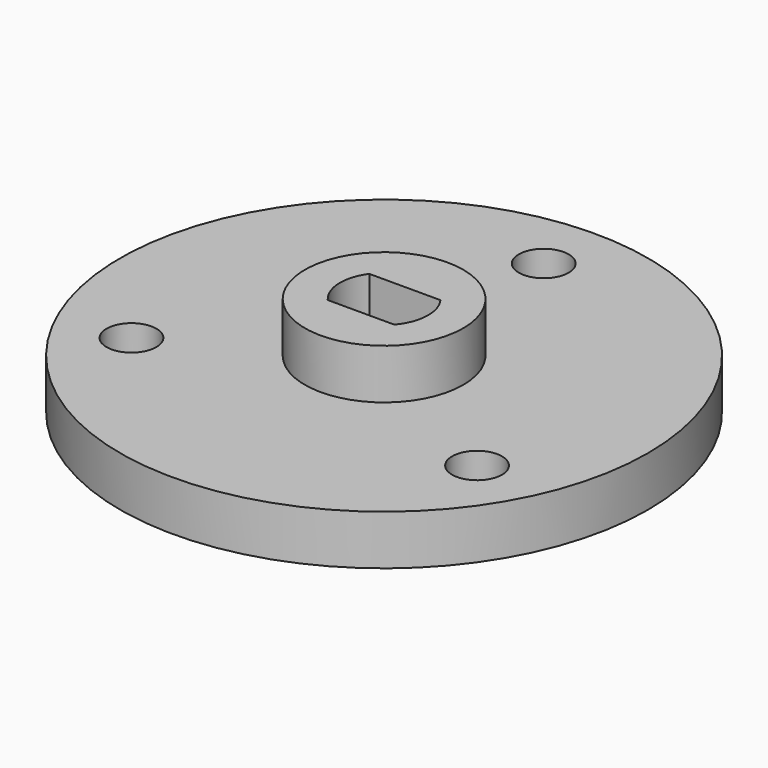
from build123d import *

# Parameters (mm, degrees)
F1_R     = 4.7625
F2_DEPTH = 6
F1_R_2   = 15.875
F1_R_3   = 1.5
F3_DEPTH = 3


with BuildPart() as f2:
    # F1 (on Top) → F2 (new body)
    with BuildSketch(Plane.XY):
        with Locations((33.2608025707, -165.5893599715)):
            Circle(F1_R)
        with BuildLine():
            ThreePointArc((35.2608025707, -167.3278938366), (33.2608025707, -168.2393599715), (31.2608025707, -167.3278938366))
            ThreePointArc((31.2608025707, -167.3278938366), (30.6132217472, -165.7025667882), (31.1196992314, -164.0278938366))
            ThreePointArc((31.1196992314, -164.0278938366), (33.2608025707, -162.9393599715), (35.4019059099, -164.0278938366))
            ThreePointArc((35.4019059099, -164.0278938366), (35.7803683913, -164.768209513), (35.9108025707, -165.5893599715))
            ThreePointArc((35.9108025707, -165.5893599715), (35.7429891068, -166.5173955312), (35.2608025707, -167.3278938366))
        make_face(mode=Mode.SUBTRACT)
        with BuildLine():
            ThreePointArc((35.4019059099, -164.0278938366), (33.2608025707, -162.9393599715), (31.1196992314, -164.0278938366))
            Line((31.1196992314, -164.0278938366), (35.4019059099, -164.0278938366))
        make_face()
        with BuildLine():
            Line((35.2608025707, -167.3278938366), (31.2608025707, -167.3278938366))
            ThreePointArc((31.2608025707, -167.3278938366), (33.2608025707, -168.2393599715), (35.2608025707, -167.3278938366))
        make_face()
    extrude(amount=F2_DEPTH)

    # F1 (on Top) → F3 (join)
    with BuildSketch(Plane.XY):
        with Locations((33.2608025707, -165.5893599715)):
            Circle(F1_R_2)
        with Locations((22.8684977253, -171.5893599715)):
            Circle(F1_R_3, mode=Mode.SUBTRACT)
        with Locations((43.6531074161, -171.5893599715)):
            Circle(F1_R_3, mode=Mode.SUBTRACT)
        with Locations((33.2608025707, -165.5893599715)):
            Circle(F1_R, mode=Mode.SUBTRACT)
        with Locations((33.2608025707, -153.5893599715)):
            Circle(F1_R_3, mode=Mode.SUBTRACT)
    extrude(amount=F3_DEPTH)


solid = f2.part
